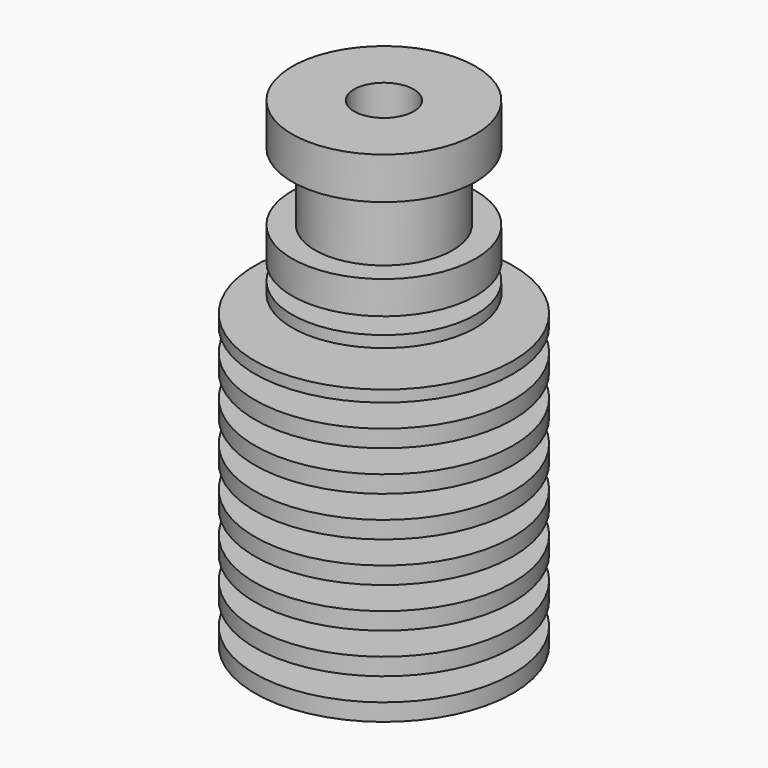
from build123d import *

# Parameters (mm, degrees)
F2_W = 11.213089
F2_H = 2


with BuildPart() as f1:
    # F0 (on Front) → F1 (revolve)
    with BuildSketch(Plane.XZ):
        Polygon((2.6, 42.62), (2.6, 0), (11.25, 0), (11.25, 26.28), (4.48, 26.28), (4.48, 27.77), (8, 27.77), (8, 28.77), (4.8, 28.77), (4.8, 30.21), (8, 30.21), (8, 33.07), (6, 33.07), (6, 38.97), (8, 38.97), (8, 42.62), align=None)
    revolve(axis=Axis((0, 0, 5.449006), (0, 0, 1)))

    # F2 (on Front) → F3 (revolve, cut)
    with BuildSketch(Plane.XZ):
        with Locations((9.606545, -3.72)):
            Rectangle(F2_W, F2_H)
        with Locations((9.606545, -0.22)):
            Rectangle(F2_W, F2_H)
        with Locations((9.606545, 3.28)):
            Rectangle(F2_W, F2_H)
        with Locations((9.606545, 6.78)):
            Rectangle(F2_W, F2_H)
        with Locations((9.606545, 10.28)):
            Rectangle(F2_W, F2_H)
        with Locations((9.606545, 13.78)):
            Rectangle(F2_W, F2_H)
        with Locations((9.606545, 17.28)):
            Rectangle(F2_W, F2_H)
        with Locations((9.606545, 20.78)):
            Rectangle(F2_W, F2_H)
        with Locations((9.606545, 24.28)):
            Rectangle(F2_W, F2_H)
    revolve(axis=Axis((0, 0, 3.329653), (0, 0, 1)), mode=Mode.SUBTRACT)


solid = f1.part
